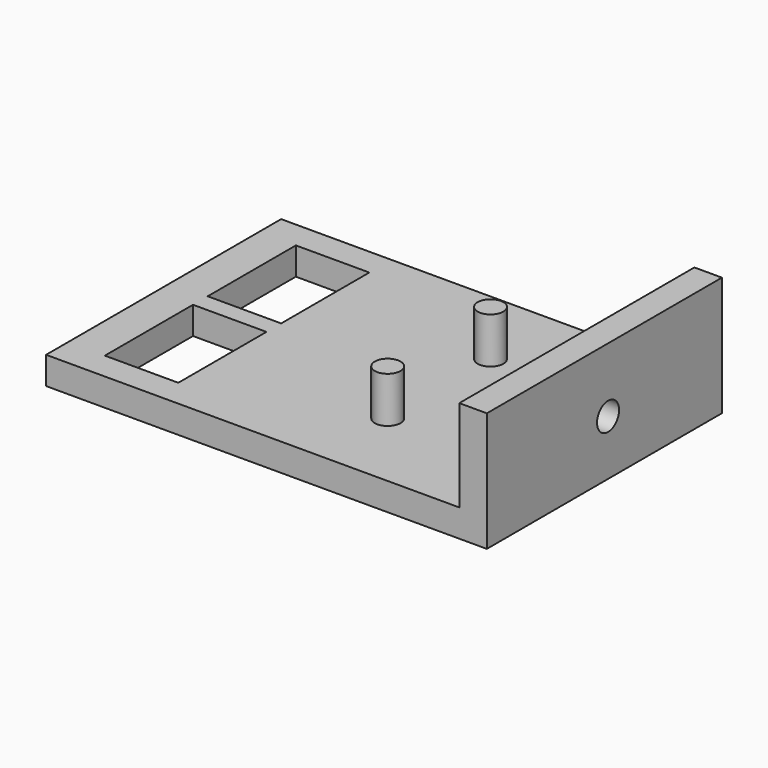
from build123d import *

# Parameters (mm, degrees)
CYLINDER032_R           = 1.4
CYLINDER032_DEPTH       = 5
CYLINDER033_R           = 1.4
CYLINDER033_DEPTH       = 5
BOX046_W                = 8
BOX046_H                = 12
BOX046_DEPTH            = 10
BOX045_W                = 8
BOX045_H                = 12
BOX045_DEPTH            = 10
CYLINDER031_R           = 1.5
CYLINDER031_DEPTH       = 10
CYLINDER031_PITCH_ANGLE = 90
BOX044_W                = 3
BOX044_H                = 32
BOX044_DEPTH            = 13
BOX043_W                = 48
BOX043_H                = 32
BOX043_DEPTH            = 3


with BuildPart() as cilindro032:
    # Cylinder032 → Cylinder032 (new body)
    with BuildSketch(Plane(origin=(-63, 6, 3), x_dir=(1, 0, 0), z_dir=(0, 0, 1))):
        Circle(CYLINDER032_R)
    extrude(amount=CYLINDER032_DEPTH)


with BuildPart() as cilindro033:
    # Cylinder033 → Cylinder033 (new body)
    with BuildSketch(Plane(origin=(-63, -8, 3), x_dir=(1, 0, 0), z_dir=(0, 0, 1))):
        Circle(CYLINDER033_R)
    extrude(amount=CYLINDER033_DEPTH)


with BuildPart() as cubo040:
    # Box046 → Box046 (new body)
    with BuildSketch(Plane(origin=(-89, 0, -2), x_dir=(1, 0, 0), z_dir=(0, 0, 1))):
        with Locations((4, 6)):
            Rectangle(BOX046_W, BOX046_H)
    extrude(amount=BOX046_DEPTH)


with BuildPart() as cubo039:
    # Box045 → Box045 (new body)
    with BuildSketch(Plane(origin=(-89, -14, -2), x_dir=(1, 0, 0), z_dir=(0, 0, 1))):
        with Locations((4, 6)):
            Rectangle(BOX045_W, BOX045_H)
    extrude(amount=BOX045_DEPTH)


with BuildPart() as cilindro031:
    # Cylinder031 → Cylinder031 (new body)
    with BuildSketch(Plane.XY):
        Circle(CYLINDER031_R)
    extrude(amount=CYLINDER031_DEPTH)


with BuildPart() as cilindro031_1:
    # Cylinder031 pitch: moved
    add(cilindro031.part.rotate(Axis((0, 0, 0), (0, 1, 0)), CYLINDER031_PITCH_ANGLE))


with BuildPart() as cilindro031_2:
    # Cylinder031 placement: moved
    add(cilindro031_1.part.moved(Location((-51, -0.5, 6))))


with BuildPart() as cubo038:
    # Box044 → Box044 (new body)
    with BuildSketch(Plane(origin=(-48, -17, 0), x_dir=(1, 0, 0), z_dir=(0, 0, 1))):
        with Locations((1.5, 16)):
            Rectangle(BOX044_W, BOX044_H)
    extrude(amount=BOX044_DEPTH)


with BuildPart() as obj1:
    # Box043 → Box043 (new body)
    with BuildSketch(Plane(origin=(-93, -17, 0), x_dir=(1, 0, 0), z_dir=(0, 0, 1))):
        with Locations((24, 16)):
            Rectangle(BOX043_W, BOX043_H)
    extrude(amount=BOX043_DEPTH)

    # Fusion013: union Cubo038
    add(cubo038.part)

    # Cut056: cut Cilindro031
    add(cilindro031_2.part, mode=Mode.SUBTRACT)

    # Cut057: cut Cubo039
    add(cubo039.part, mode=Mode.SUBTRACT)

    # Cut058: cut Cubo040
    add(cubo040.part, mode=Mode.SUBTRACT)

    # Fusion014: union Cilindro032, Cilindro033
    add(cilindro032.part)
    add(cilindro033.part)


solid = obj1.part
